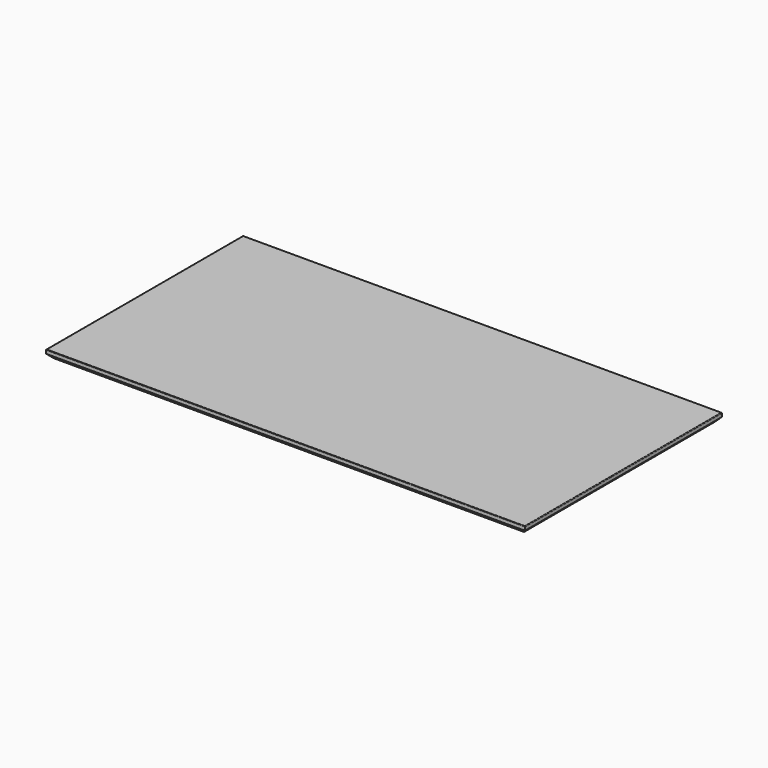
from build123d import *

# Parameters (mm, degrees)
F0_W     = 1750
F0_H     = 900
F1_DEPTH = 30
F2_SIZE  = 16
F3_R     = 2


with BuildPart() as f1:
    # F0 (on Top) → F1 (new body)
    with BuildSketch(Plane.XY):
        Rectangle(F0_W, F0_H)
    extrude(amount=-F1_DEPTH)

    # F2
    f2_edges = [f1.edges().sort_by_distance(p)[0] for p in [
        (0, -450, -30),
        (-875, 0, -30),
        (0, 450, -30),
        (875, 0, -30),
    ]]
    chamfer(f2_edges, length=F2_SIZE)

    # F3
    f3_edges = [f1.edges().sort_by_distance(p)[0] for p in [
        (0, 450, 0),
        (875, 0, 0),
        (0, -450, 0),
        (-875, 0, 0),
    ]]
    fillet(f3_edges, radius=F3_R)


solid = f1.part
